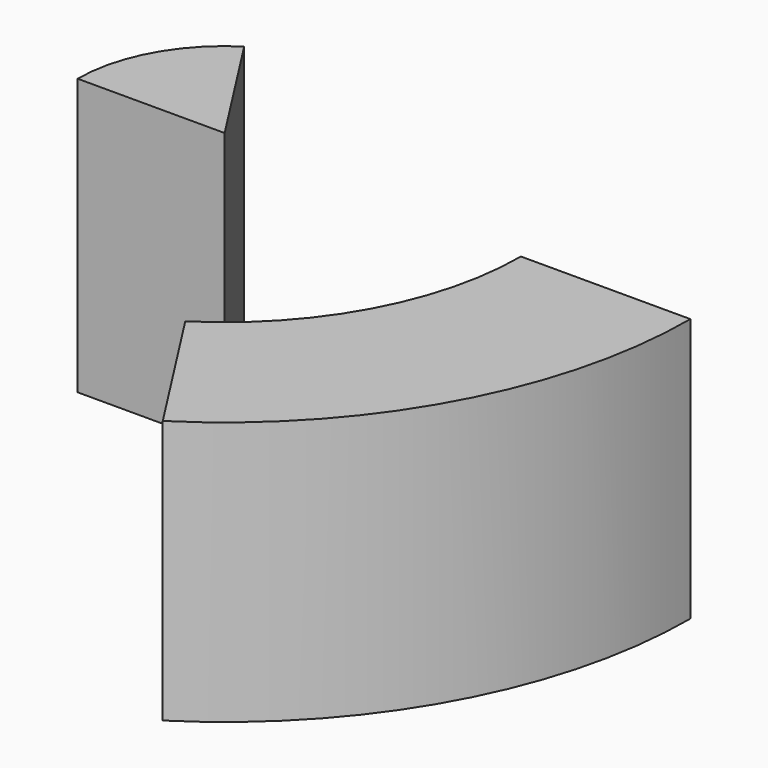
from build123d import *

# Parameters (mm, degrees)
F0_W     = 32.017924
F0_H     = 60.125254
F0_W_2   = 36.906153
F0_H_2   = 57.436727
F1_ANGLE = 57.29578


with BuildPart() as f1:
    # F0 (on Front) → F1 (revolve)
    with BuildSketch(Plane.XZ):
        with Locations((-45.338351, 30.062627)):
            Rectangle(F0_W, F0_H)
        with Locations((53.648353, 28.718363)):
            Rectangle(F0_W_2, F0_H_2)
    revolve(axis=Axis((-29.329389, 0, 30.062627), (0, 0, -1)), revolution_arc=F1_ANGLE)


solid = f1.part
